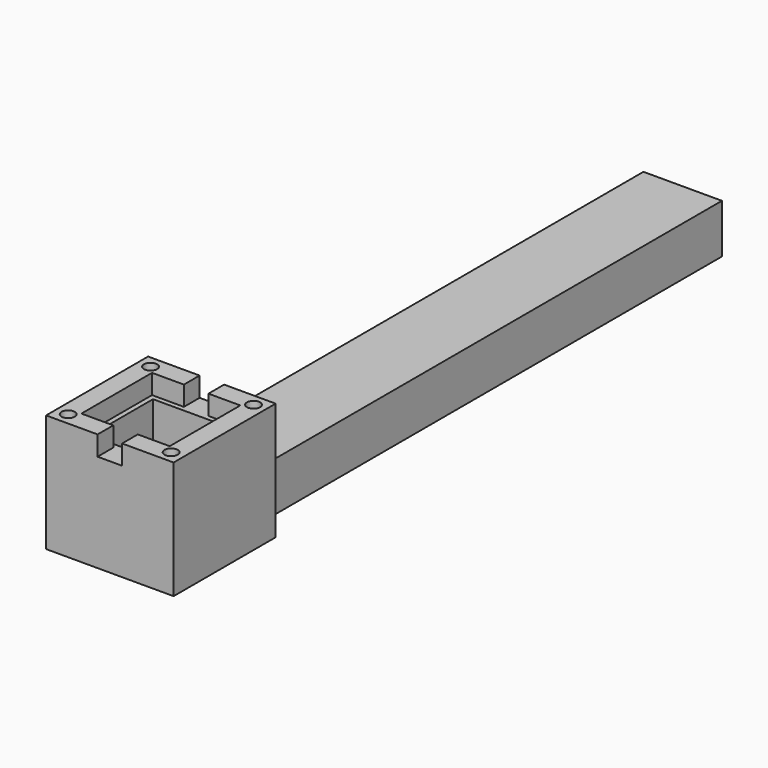
from build123d import *

# Parameters (mm, degrees)
F0_W      = 26
F0_H      = 26
F0_W_2    = 16
F0_H_2    = 16
F1_DEPTH  = 2
F2_DEPTH  = 20
F3_W      = 26
F3_H      = 26
F3_W_2    = 18
F3_H_2    = 18
F4_DEPTH  = 4
F5_W      = 5
F5_H      = 4
F6_DEPTH  = 4
F7_D      = 2.7
F7_DEPTH  = 4
F7_TIP    = 0.8111618357
F9_W      = 8
F9_H      = 6
F10_DEPTH = 10.28
F9_W_2    = 16
F9_H_2    = 10
F11_DEPTH = 120


with BuildPart() as f1:
    # F0 (on Top) → F1 (new body)
    with BuildSketch(Plane.XY):
        Rectangle(F0_W, F0_H)
        Rectangle(F0_W_2, F0_H_2, mode=Mode.SUBTRACT)
        Rectangle(F0_W, F0_H)
        Rectangle(F0_W_2, F0_H_2, mode=Mode.SUBTRACT)
        Rectangle(F0_W_2, F0_H_2)
    extrude(amount=F1_DEPTH)

    # F0 (on Top) → F2 (join)
    with BuildSketch(Plane.XY):
        Rectangle(F0_W, F0_H)
        Rectangle(F0_W_2, F0_H_2, mode=Mode.SUBTRACT)
        Rectangle(F0_W, F0_H)
        Rectangle(F0_W_2, F0_H_2, mode=Mode.SUBTRACT)
    extrude(amount=F2_DEPTH)

    # F3 (on face) → F4 (join)
    with BuildSketch(Plane.XY.offset(20)):
        Rectangle(F3_W, F3_H)
        Rectangle(F3_W_2, F3_H_2, mode=Mode.SUBTRACT)
    extrude(amount=F4_DEPTH)

    # F5 (on face) → F6 (cut, through all)
    with BuildSketch(Plane.XY.offset(24)):
        with Locations((0, -11)):
            Rectangle(F5_W, F5_H)
        with Locations((0, 11)):
            Rectangle(F5_W, F5_H)
    extrude(amount=-F6_DEPTH, mode=Mode.SUBTRACT)

    # F7
    with Locations(Plane.XY.offset(24)):
        with Locations((-10.5, 10.5), (10.5, 10.5), (-10.5, -10.5), (10.5, -10.5)):
            Hole(F7_D / 2, depth=F7_DEPTH)
            with Locations((0, 0, -(F7_DEPTH + F7_TIP / 2))):  # 118° drill point
                Cone(0, F7_D / 2, F7_TIP, mode=Mode.SUBTRACT)

    # F9 (on face) → F10 (cut)
    with BuildSketch(Plane(origin=(0, 13, 0), x_dir=(-1, 0, 0), z_dir=(0, 1, 0))):
        with Locations((0, 5)):
            Rectangle(F9_W, F9_H)
    extrude(amount=-F10_DEPTH, mode=Mode.SUBTRACT)

    # F9 (on face) → F11 (join)
    with BuildSketch(Plane(origin=(0, 13, 0), x_dir=(-1, 0, 0), z_dir=(0, 1, 0))):
        with Locations((0, 5)):
            Rectangle(F9_W_2, F9_H_2)
        with Locations((0, 5)):
            Rectangle(F9_W, F9_H, mode=Mode.SUBTRACT)
    extrude(amount=F11_DEPTH)


solid = f1.part
